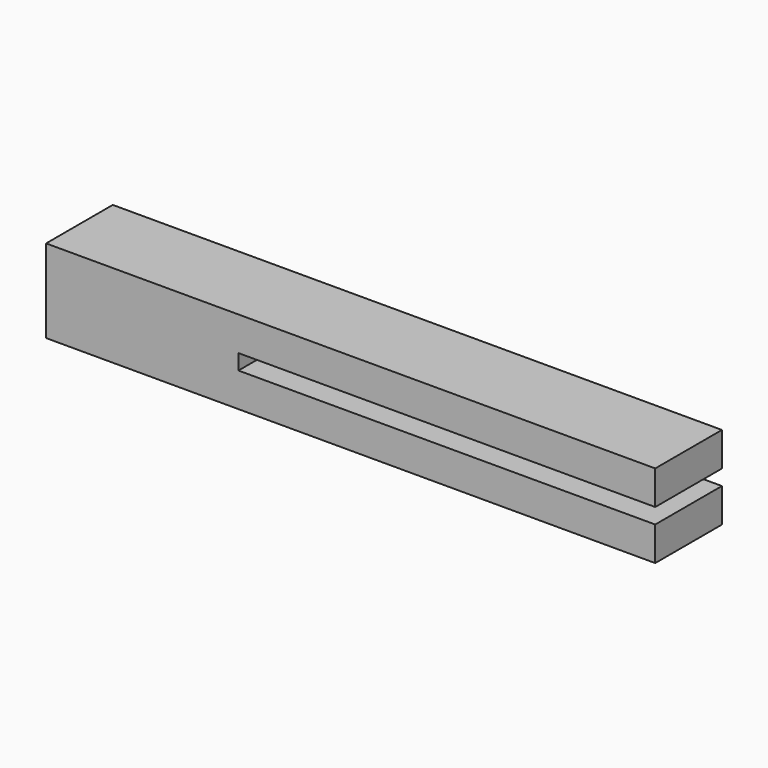
from build123d import *

# Parameters (mm, degrees)
F0_W     = 13
F0_H     = 13
F1_DEPTH = 95
F3_W     = 13
F3_H     = 2.4
F4_DEPTH = 80
F5_T     = -1.6


with BuildPart() as f1:
    # F0 (on Right) → F1 (new body)
    with BuildSketch(Plane.YZ):
        Rectangle(F0_W, F0_H)
    extrude(amount=F1_DEPTH)

    # F3 (on offset) → F4 (cut)
    with BuildSketch(Plane.YZ.offset(110)):
        Rectangle(F3_W, F3_H)
    extrude(amount=-F4_DEPTH, mode=Mode.SUBTRACT)

    # F5 (hollow: no face is removed)
    offset(amount=F5_T, kind=Kind.INTERSECTION, mode=Mode.SUBTRACT)


solid = f1.part
